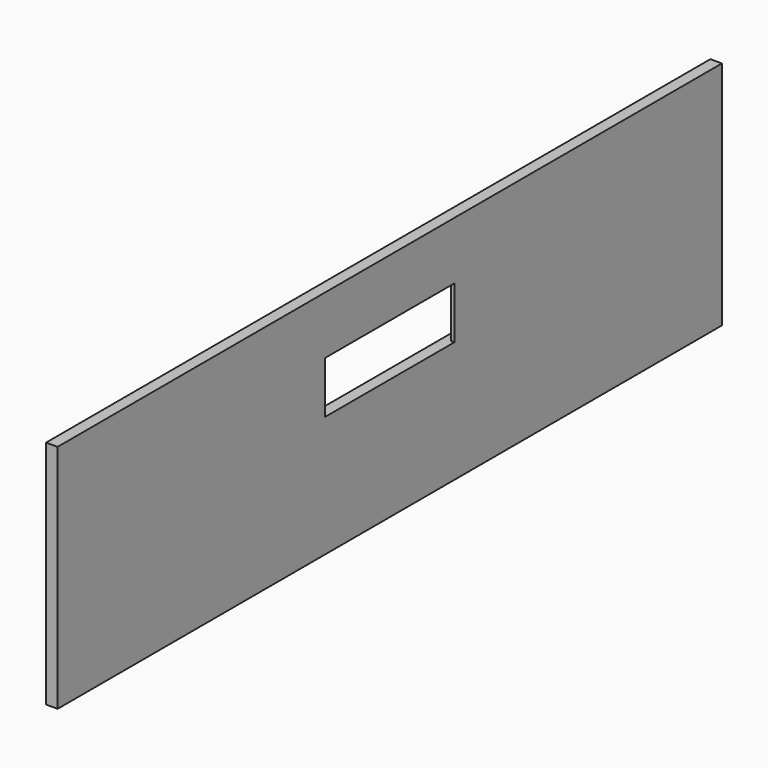
from build123d import *

# Parameters (mm, degrees)
F0_W     = 720
F0_H     = 200
F1_DEPTH = 10
F3_DEPTH = 25
F5_DEPTH = 7


with BuildPart() as f1:
    # F0 (on Right) → F1 (new body)
    with BuildSketch(Plane.YZ):
        Rectangle(F0_W, F0_H)
    extrude(amount=F1_DEPTH)

    # F2 (on face) → F3 (cut)
    with BuildSketch(Plane.YZ.offset(10)):
        Polygon((-70, 5), (0, 5), (70, 5), (70, 50), (-70, 50), align=None)
    extrude(amount=-F3_DEPTH, mode=Mode.SUBTRACT)

    # F4 (on face) → F5 (cut)
    with BuildSketch(Plane(origin=(0, 0, 0), x_dir=(0, -1, 0), z_dir=(-1, 0, 0))):
        Polygon((-100, 5), (0, 5), (100, 5), (100, 52), (-100, 52), align=None)
    extrude(amount=-F5_DEPTH, mode=Mode.SUBTRACT)


solid = f1.part
